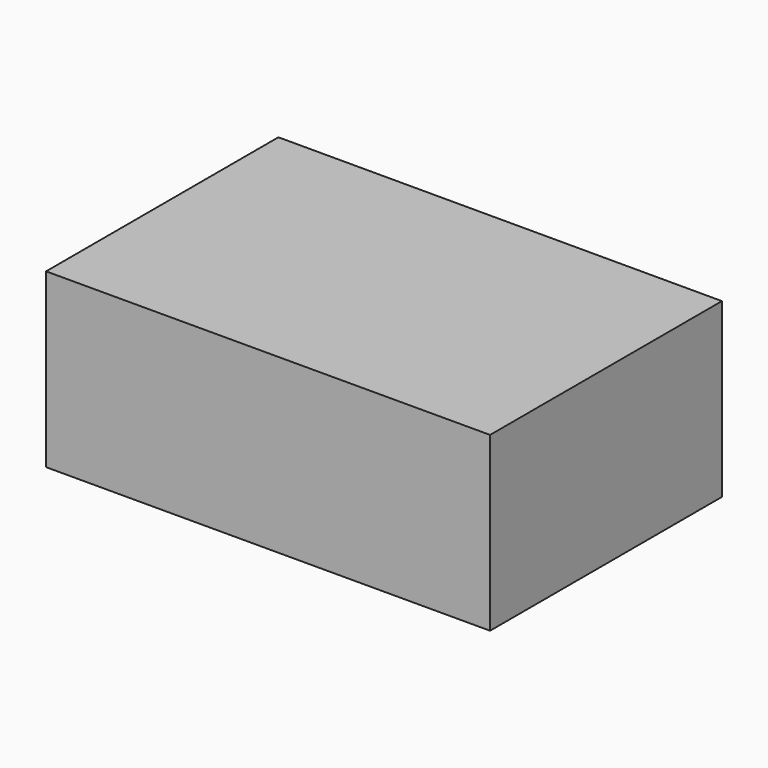
from build123d import *

# Parameters (mm, degrees)
F1_DEPTH = 25.4
F2_DEPTH = 25.4


with BuildPart() as f1:
    # F0 (on Top) → F1 (new body)
    with BuildSketch(Plane.XY):
        Polygon((110.858604, 6.906583), (45.50983, 6.906583), (45.50983, -35.874549), (110.858604, -35.789702), align=None)
    extrude(amount=F1_DEPTH)

    # F0 (on Top) → F2 (join)
    with BuildSketch(Plane.XY):
        Polygon((110.858604, 6.906583), (45.50983, 6.906583), (45.50983, -35.874549), (110.858604, -35.789702), align=None)
    extrude(amount=F2_DEPTH)


solid = f1.part
